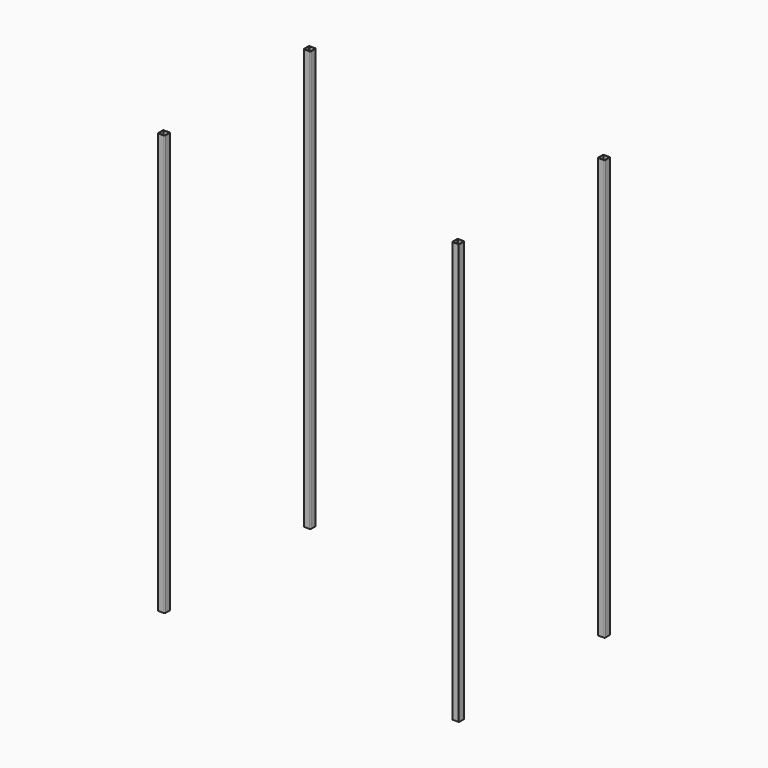
from build123d import *

# Parameters (mm, degrees)
F1_DEPTH = 3000


with BuildPart() as f1:
    # F0 (on Top) → F1 (new body)
    with BuildSketch(Plane.XY):
        with BuildLine():
            Line((-1005, 1350), (-1045, 1350))
            ThreePointArc((-1045, 1350), (-1048.535534, 1348.535534), (-1050, 1345))
            Line((-1050, 1345), (-1050, 1305))
            ThreePointArc((-1050, 1305), (-1048.535534, 1301.464466), (-1045, 1300))
            Line((-1045, 1300), (-1005, 1300))
            ThreePointArc((-1005, 1300), (-1001.464466, 1301.464466), (-1000, 1305))
            Line((-1000, 1305), (-1000, 1345))
            ThreePointArc((-1000, 1345), (-1001.464466, 1348.535534), (-1005, 1350))
        make_face()
        with BuildLine():
            ThreePointArc((-1005, 1347), (-1003.585786, 1346.414214), (-1003, 1345))
            Line((-1003, 1345), (-1003, 1305))
            ThreePointArc((-1003, 1305), (-1003.585786, 1303.585786), (-1005, 1303))
            Line((-1005, 1303), (-1045, 1303))
            ThreePointArc((-1045, 1303), (-1046.414214, 1303.585786), (-1047, 1305))
            Line((-1047, 1305), (-1047, 1345))
            ThreePointArc((-1047, 1345), (-1046.414214, 1346.414214), (-1045, 1347))
            Line((-1045, 1347), (-1005, 1347))
        make_face(mode=Mode.SUBTRACT)
        with BuildLine():
            Line((-1045, 0), (-1005, 0))
            ThreePointArc((-1005, 0), (-1001.464466, 1.464466), (-1000, 5))
            Line((-1000, 5), (-1000, 45))
            ThreePointArc((-1000, 45), (-1001.464466, 48.535534), (-1005, 50))
            Line((-1005, 50), (-1045, 50))
            ThreePointArc((-1045, 50), (-1048.535534, 48.535534), (-1050, 45))
            Line((-1050, 45), (-1050, 5))
            ThreePointArc((-1050, 5), (-1048.535534, 1.464466), (-1045, 0))
        make_face()
        with BuildLine():
            Line((-1005, 3), (-1045, 3))
            ThreePointArc((-1045, 3), (-1046.414214, 3.585786), (-1047, 5))
            Line((-1047, 5), (-1047, 45))
            ThreePointArc((-1047, 45), (-1046.414214, 46.414214), (-1045, 47))
            Line((-1045, 47), (-1005, 47))
            ThreePointArc((-1005, 47), (-1003.585786, 46.414214), (-1003, 45))
            Line((-1003, 45), (-1003, 5))
            ThreePointArc((-1003, 5), (-1003.585786, 3.585786), (-1005, 3))
        make_face(mode=Mode.SUBTRACT)
        with BuildLine():
            Line((1055, 1300), (1095, 1300))
            ThreePointArc((1095, 1300), (1098.535534, 1301.464466), (1100, 1305))
            Line((1100, 1305), (1100, 1345))
            ThreePointArc((1100, 1345), (1098.535534, 1348.535534), (1095, 1350))
            Line((1095, 1350), (1055, 1350))
            ThreePointArc((1055, 1350), (1051.464466, 1348.535534), (1050, 1345))
            Line((1050, 1345), (1050, 1305))
            ThreePointArc((1050, 1305), (1051.464466, 1301.464466), (1055, 1300))
        make_face()
        with BuildLine():
            Line((1095, 1303), (1055, 1303))
            ThreePointArc((1055, 1303), (1053.585786, 1303.585786), (1053, 1305))
            Line((1053, 1305), (1053, 1345))
            ThreePointArc((1053, 1345), (1053.585786, 1346.414214), (1055, 1347))
            Line((1055, 1347), (1095, 1347))
            ThreePointArc((1095, 1347), (1096.414214, 1346.414214), (1097, 1345))
            Line((1097, 1345), (1097, 1305))
            ThreePointArc((1097, 1305), (1096.414214, 1303.585786), (1095, 1303))
        make_face(mode=Mode.SUBTRACT)
        with BuildLine():
            Line((1055, 0), (1095, 0))
            ThreePointArc((1095, 0), (1098.535534, 1.464466), (1100, 5))
            Line((1100, 5), (1100, 45))
            ThreePointArc((1100, 45), (1098.535534, 48.535534), (1095, 50))
            Line((1095, 50), (1055, 50))
            ThreePointArc((1055, 50), (1051.464466, 48.535534), (1050, 45))
            Line((1050, 45), (1050, 5))
            ThreePointArc((1050, 5), (1051.464466, 1.464466), (1055, 0))
        make_face()
        with BuildLine():
            Line((1095, 3), (1055, 3))
            ThreePointArc((1055, 3), (1053.585786, 3.585786), (1053, 5))
            Line((1053, 5), (1053, 45))
            ThreePointArc((1053, 45), (1053.585786, 46.414214), (1055, 47))
            Line((1055, 47), (1095, 47))
            ThreePointArc((1095, 47), (1096.414214, 46.414214), (1097, 45))
            Line((1097, 45), (1097, 5))
            ThreePointArc((1097, 5), (1096.414214, 3.585786), (1095, 3))
        make_face(mode=Mode.SUBTRACT)
    extrude(amount=F1_DEPTH)


solid = f1.part
